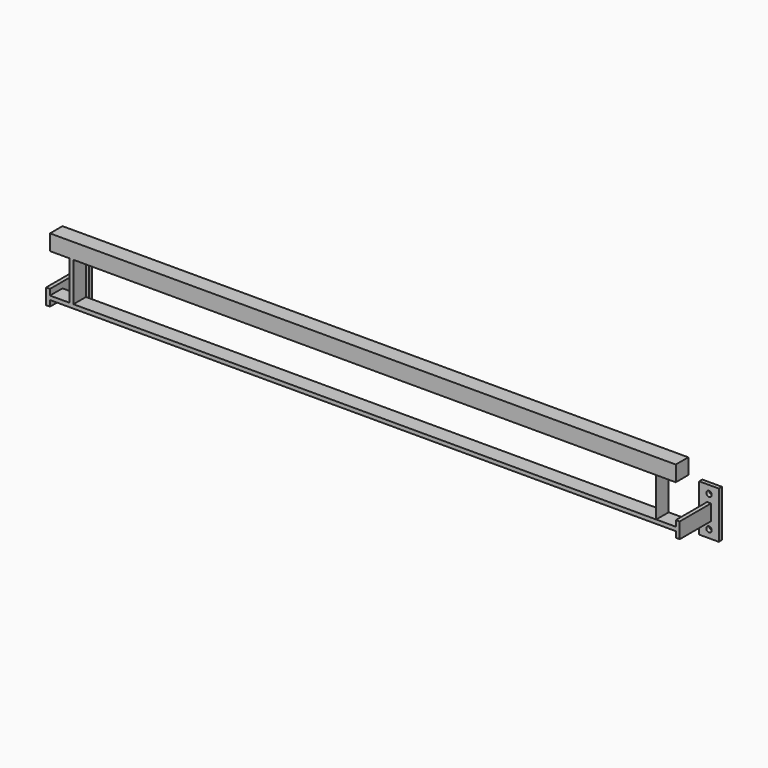
from build123d import *

# Parameters (mm, degrees)
F0_W          = 40
F0_H          = 40
F1_DEPTH      = 800
F1_DEPTH_BACK = 800
F4_W          = 40
F4_H          = 100
F5_DEPTH      = 10
F6_W          = 40
F6_H          = 100
F7_DEPTH      = 1
F8_W          = 40
F8_H          = 10
F9_DEPTH      = 800
F9_DEPTH_BACK = 800
F10_W         = 100
F10_H         = 40
F11_DEPTH     = 10
F12_W         = 100
F12_H         = 40
F13_DEPTH     = 10
F14_W         = 50
F14_H         = 120
F14_R         = 7
F15_DEPTH     = 10
F16_W         = 50
F16_H         = 120
F16_R         = 7
F17_DEPTH     = 10


with BuildPart() as f1:
    # F0 (on Right) → F1 (new body, two sides)
    with BuildSketch(Plane.YZ) as f1_sk:
        Rectangle(F0_W, F0_H)
    extrude(amount=F1_DEPTH)
    extrude(f1_sk.sketch, amount=-F1_DEPTH_BACK)

    # F4 (on offset) → F5 (join)
    with BuildSketch(Plane.YZ.offset(-750)):
        with Locations((0, -70)):
            Rectangle(F4_W, F4_H)
    extrude(amount=F5_DEPTH)

    # F6 (on offset) → F7 (join)
    with BuildSketch(Plane.YZ.offset(750)):
        with Locations((0, -70)):
            Rectangle(F6_W, F6_H)
    extrude(amount=-F7_DEPTH)

    # F8 (on Right) → F9 (join, two sides)
    with BuildSketch(Plane.YZ) as f9_sk:
        with Locations((0, -125)):
            Rectangle(F8_W, F8_H)
    extrude(amount=F9_DEPTH)
    extrude(f9_sk.sketch, amount=-F9_DEPTH_BACK)

    # F10 (on face) → F11 (join)
    with BuildSketch(Plane.YZ.offset(800)):
        with Locations((30, -125)):
            Rectangle(F10_W, F10_H)
    extrude(amount=F11_DEPTH)

    # F12 (on face) → F13 (join)
    with BuildSketch(Plane(origin=(-800, 0, 0), x_dir=(0, -1, 0), z_dir=(-1, 0, 0))):
        with Locations((-30, -125)):
            Rectangle(F12_W, F12_H)
    extrude(amount=F13_DEPTH)

    # F14 (on face) → F15 (join)
    with BuildSketch(Plane(origin=(0, 80, 0), x_dir=(-1, 0, 0), z_dir=(0, 1, 0))):
        with Locations((-805, -125)):
            Rectangle(F14_W, F14_H)
        with Locations((-805, -165)):
            Circle(F14_R, mode=Mode.SUBTRACT)
        with Locations((-805, -85)):
            Circle(F14_R, mode=Mode.SUBTRACT)
    extrude(amount=F15_DEPTH)

    # F16 (on face) → F17 (join)
    with BuildSketch(Plane(origin=(0, 80, 0), x_dir=(-1, 0, 0), z_dir=(0, 1, 0))):
        with Locations((805, -125)):
            Rectangle(F16_W, F16_H)
        with Locations((805, -165)):
            Circle(F16_R, mode=Mode.SUBTRACT)
        with Locations((805, -85)):
            Circle(F16_R, mode=Mode.SUBTRACT)
    extrude(amount=F17_DEPTH)


solid = f1.part
